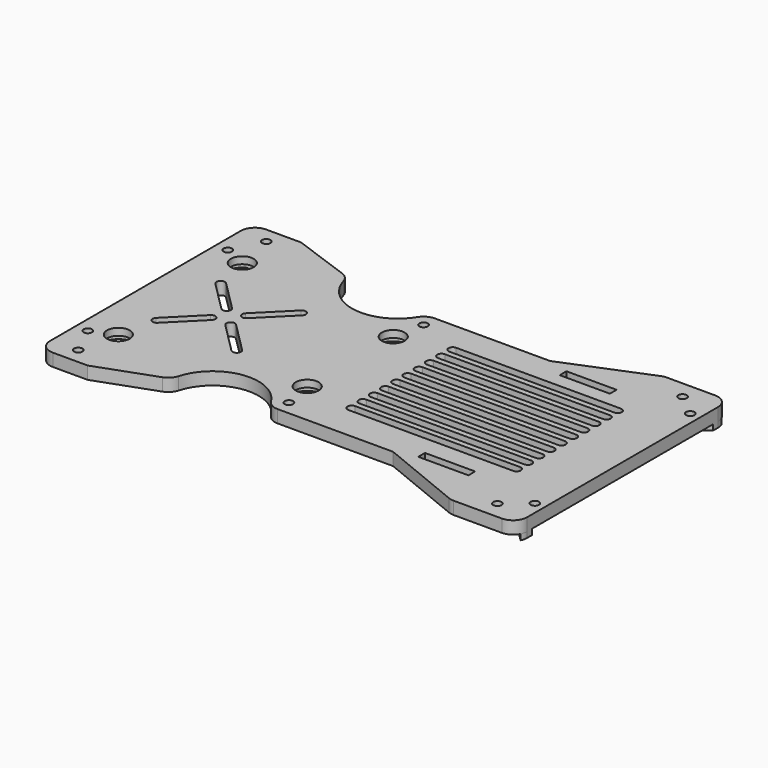
from build123d import *

# Parameters (mm, degrees)
F0_R     = 1.5
F0_R_2   = 4.064442
F0_W     = 17.869964
F0_H     = 3
F1_DEPTH = 4.5
F2_W     = 10.996489
F2_H     = 3.251471
F3_DEPTH = 2
F4_R     = 5.902111
F5_DEPTH = 2
F7_DEPTH = 25


with BuildPart() as f1:
    # F0 (on Top) → F1 (new body)
    with BuildSketch(Plane.XY):
        with BuildLine():
            ThreePointArc((0, 42.5), (-1.464466, 46.035534), (-5, 47.5))
            Line((-5, 47.5), (-22.221084, 47.5))
            ThreePointArc((-22.221084, 47.5), (-23.18507, 47.406193), (-24.112885, 47.128292))
            Line((-24.112885, 47.128292), (-53.784762, 35))
            Line((-53.784762, 35), (-94.883973, 35))
            ThreePointArc((-94.883973, 35), (-97.317732, 34.367701), (-99.135947, 32.630726))
            ThreePointArc((-99.135947, 32.630726), (-115.303652, 25.021468), (-128.810321, 36.720415))
            ThreePointArc((-128.810321, 36.720415), (-129.96409, 38.753765), (-131.916134, 40.040317))
            Line((-131.916134, 40.040317), (-152.559489, 47.5))
            Line((-152.559489, 47.5), (-165, 47.5))
            ThreePointArc((-165, 47.5), (-168.535534, 46.035534), (-170, 42.5))
            Line((-170, 42.5), (-170, 35))
            Line((-170, 35), (-170, 0))
            Line((-170, 0), (-170, -35))
            Line((-170, -35), (-170, -42.5))
            ThreePointArc((-170, -42.5), (-168.535534, -46.035534), (-165, -47.5))
            Line((-165, -47.5), (-152.559489, -47.5))
            Line((-152.559489, -47.5), (-131.916134, -40.040317))
            ThreePointArc((-131.916134, -40.040317), (-129.96409, -38.753765), (-128.810321, -36.720415))
            ThreePointArc((-128.810321, -36.720415), (-115.303652, -25.021468), (-99.135947, -32.630726))
            ThreePointArc((-99.135947, -32.630726), (-97.317732, -34.367701), (-94.883973, -35))
            Line((-94.883973, -35), (-53.784762, -35))
            Line((-53.784762, -35), (-24.112885, -47.128292))
            ThreePointArc((-24.112885, -47.128292), (-23.18507, -47.406193), (-22.221084, -47.5))
            Line((-22.221084, -47.5), (-5, -47.5))
            ThreePointArc((-5, -47.5), (-1.464466, -46.035534), (0, -42.5))
            Line((0, -42.5), (0, -35))
            Line((0, -35), (0, 0))
            Line((0, 0), (0, 35))
            Line((0, 35), (0, 42.5))
        make_face()
        with Locations((-160.42681, -41.874927)):
            Circle(F0_R, mode=Mode.SUBTRACT)
        with Locations((-165.596247, -31.161871)):
            Circle(F0_R, mode=Mode.SUBTRACT)
        with Locations((-157.563224, -27.604574)):
            Circle(F0_R_2, mode=Mode.SUBTRACT)
        with Locations((-94.883973, -30)):
            Circle(F0_R, mode=Mode.SUBTRACT)
        with BuildLine():
            Line((-155.63046, -13.178692), (-144.869025, -2.417256))
            ThreePointArc((-144.869025, -2.417256), (-142.747705, -2.417256), (-142.747705, -4.538577))
            Line((-142.747705, -4.538577), (-153.50914, -15.300012))
            ThreePointArc((-153.50914, -15.300012), (-155.63046, -15.300012), (-155.63046, -13.178692))
        make_face(mode=Mode.SUBTRACT)
        with BuildLine():
            Line((-126.950468, -15.501301), (-137.913192, -4.538577))
            ThreePointArc((-137.913192, -4.538577), (-137.913192, -2.417256), (-135.791872, -2.417256))
            Line((-135.791872, -2.417256), (-124.829148, -13.37998))
            ThreePointArc((-124.829148, -13.37998), (-124.829148, -15.501301), (-126.950468, -15.501301))
        make_face(mode=Mode.SUBTRACT)
        with Locations((-97.036146, -19.152308)):
            Circle(F0_R_2, mode=Mode.SUBTRACT)
        with Locations((-11.601751, -41.25)):
            Circle(F0_R, mode=Mode.SUBTRACT)
        with Locations((-37.462216, -31.5)):
            Rectangle(F0_W, F0_H, mode=Mode.SUBTRACT)
        with Locations((-3.568025, -34.615397)):
            Circle(F0_R, mode=Mode.SUBTRACT)
        with BuildLine():
            ThreePointArc((-155.63046, 13.178692), (-155.63046, 15.300012), (-153.50914, 15.300012))
            Line((-153.50914, 15.300012), (-142.747705, 4.538577))
            ThreePointArc((-142.747705, 4.538577), (-142.747705, 2.417256), (-144.869025, 2.417256))
            Line((-144.869025, 2.417256), (-155.63046, 13.178692))
        make_face(mode=Mode.SUBTRACT)
        with BuildLine():
            ThreePointArc((-135.791872, 2.417256), (-137.913192, 2.417256), (-137.913192, 4.538577))
            Line((-137.913192, 4.538577), (-126.950468, 15.501301))
            ThreePointArc((-126.950468, 15.501301), (-124.829148, 15.501301), (-124.829148, 13.37998))
            Line((-124.829148, 13.37998), (-135.791872, 2.417256))
        make_face(mode=Mode.SUBTRACT)
        with Locations((-97.036146, 19.152308)):
            Circle(F0_R_2, mode=Mode.SUBTRACT)
        with Locations((-157.563224, 27.604574)):
            Circle(F0_R_2, mode=Mode.SUBTRACT)
        with Locations((-165.596247, 31.161871)):
            Circle(F0_R, mode=Mode.SUBTRACT)
        with Locations((-160.42681, 41.874927)):
            Circle(F0_R, mode=Mode.SUBTRACT)
        with Locations((-94.883973, 30)):
            Circle(F0_R, mode=Mode.SUBTRACT)
        with Locations((-37.462216, 31.5)):
            Rectangle(F0_W, F0_H, mode=Mode.SUBTRACT)
        with Locations((-3.568025, 34.615397)):
            Circle(F0_R, mode=Mode.SUBTRACT)
        with Locations((-11.601751, 41.25)):
            Circle(F0_R, mode=Mode.SUBTRACT)
    extrude(amount=F1_DEPTH)

    # F2 (on face) → F3 (join)
    with BuildSketch(Plane(origin=(0, 0, 0), x_dir=(1, 0, 0), z_dir=(0, 0, -1))):
        with Locations((-164.501756, 34.962811)):
            Rectangle(F2_W, F2_H)
        with BuildLine():
            Line((-0.535832, 44.751933), (-7.695868, 37.591897))
            Line((-7.695868, 37.591897), (-5.774221, 35.670251))
            Line((-5.774221, 35.670251), (0, 40.31283))
            Line((0, 40.31283), (0, 42.5))
            ThreePointArc((0, 42.5), (-0.135802, 43.657402), (-0.535832, 44.751933))
        make_face()
        with BuildLine():
            Line((0, -42.5), (0, -40.31283))
            Line((0, -40.31283), (-5.774221, -35.670251))
            Line((-5.774221, -35.670251), (-7.695868, -37.591897))
            Line((-7.695868, -37.591897), (-0.535832, -44.751933))
            ThreePointArc((-0.535832, -44.751933), (-0.135802, -43.657402), (0, -42.5))
        make_face()
        with Locations((-164.501756, -34.962811)):
            Rectangle(F2_W, F2_H)
    extrude(amount=F3_DEPTH)

    # F4 (on face) → F5 (cut)
    with BuildSketch(Plane(origin=(0, 0, 0), x_dir=(1, 0, 0), z_dir=(0, 0, -1))):
        with Locations((-97.036146, 19.152308)):
            Circle(F4_R)
        with Locations((-157.563224, 27.604574)):
            Circle(F4_R)
        with Locations((-97.036146, -19.152308)):
            Circle(F4_R)
        with Locations((-157.563224, -27.604574)):
            Circle(F4_R)
    extrude(amount=-F5_DEPTH, mode=Mode.SUBTRACT)

    # F6 (on face) → F7 (cut)
    with BuildSketch(Plane(origin=(0, 0, 0), x_dir=(1, 0, 0), z_dir=(0, 0, -1))):
        with BuildLine():
            ThreePointArc((-79.22934, 23.110536), (-80.72934, 21.610536), (-79.22934, 20.110536))
            Line((-79.22934, 20.110536), (-20.462809, 20.110536))
            ThreePointArc((-20.462809, 20.110536), (-18.962809, 21.610536), (-20.462809, 23.110536))
            Line((-20.462809, 23.110536), (-79.22934, 23.110536))
        make_face()
        with BuildLine():
            Line((-20.462809, 18.110536), (-79.22934, 18.110536))
            ThreePointArc((-79.22934, 18.110536), (-80.72934, 16.610536), (-79.22934, 15.110536))
            Line((-79.22934, 15.110536), (-20.462809, 15.110536))
            ThreePointArc((-20.462809, 15.110536), (-18.962809, 16.610536), (-20.462809, 18.110536))
        make_face()
        with BuildLine():
            Line((-20.462809, 13.110536), (-79.22934, 13.110536))
            ThreePointArc((-79.22934, 13.110536), (-80.72934, 11.610536), (-79.22934, 10.110536))
            Line((-79.22934, 10.110536), (-20.462809, 10.110536))
            ThreePointArc((-20.462809, 10.110536), (-18.962809, 11.610536), (-20.462809, 13.110536))
        make_face()
        with BuildLine():
            Line((-20.462809, 8.110536), (-79.22934, 8.110536))
            ThreePointArc((-79.22934, 8.110536), (-80.72934, 6.610536), (-79.22934, 5.110536))
            Line((-79.22934, 5.110536), (-20.462809, 5.110536))
            ThreePointArc((-20.462809, 5.110536), (-18.962809, 6.610536), (-20.462809, 8.110536))
        make_face()
        with BuildLine():
            Line((-20.462809, 3.110536), (-79.22934, 3.110536))
            ThreePointArc((-79.22934, 3.110536), (-80.72934, 1.610536), (-79.22934, 0.110536))
            Line((-79.22934, 0.110536), (-20.462809, 0.110536))
            ThreePointArc((-20.462809, 0.110536), (-18.962809, 1.610536), (-20.462809, 3.110536))
        make_face()
        with BuildLine():
            Line((-20.462809, -1.889464), (-79.22934, -1.889464))
            ThreePointArc((-79.22934, -1.889464), (-80.72934, -3.389464), (-79.22934, -4.889464))
            Line((-79.22934, -4.889464), (-20.462809, -4.889464))
            ThreePointArc((-20.462809, -4.889464), (-18.962809, -3.389464), (-20.462809, -1.889464))
        make_face()
        with BuildLine():
            Line((-20.462809, -6.889464), (-79.22934, -6.889464))
            ThreePointArc((-79.22934, -6.889464), (-80.72934, -8.389464), (-79.22934, -9.889464))
            Line((-79.22934, -9.889464), (-20.462809, -9.889464))
            ThreePointArc((-20.462809, -9.889464), (-18.962809, -8.389464), (-20.462809, -6.889464))
        make_face()
        with BuildLine():
            Line((-20.462809, -11.889464), (-79.22934, -11.889464))
            ThreePointArc((-79.22934, -11.889464), (-80.72934, -13.389464), (-79.22934, -14.889464))
            Line((-79.22934, -14.889464), (-20.462809, -14.889464))
            ThreePointArc((-20.462809, -14.889464), (-18.962809, -13.389464), (-20.462809, -11.889464))
        make_face()
        with BuildLine():
            Line((-20.462809, -16.889464), (-79.22934, -16.889464))
            ThreePointArc((-79.22934, -16.889464), (-80.72934, -18.389464), (-79.22934, -19.889464))
            Line((-79.22934, -19.889464), (-20.462809, -19.889464))
            ThreePointArc((-20.462809, -19.889464), (-18.962809, -18.389464), (-20.462809, -16.889464))
        make_face()
        with BuildLine():
            Line((-20.462809, -21.889464), (-79.22934, -21.889464))
            ThreePointArc((-79.22934, -21.889464), (-80.72934, -23.389464), (-79.22934, -24.889464))
            Line((-79.22934, -24.889464), (-20.462809, -24.889464))
            ThreePointArc((-20.462809, -24.889464), (-18.962809, -23.389464), (-20.462809, -21.889464))
        make_face()
    extrude(amount=-F7_DEPTH, mode=Mode.SUBTRACT)


solid = f1.part
